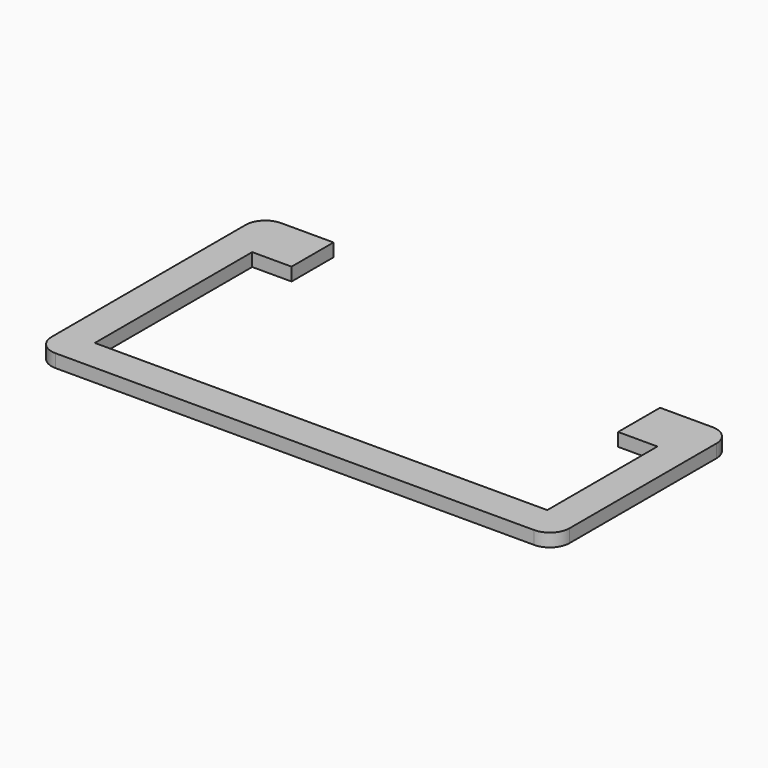
from build123d import *

# Parameters (mm, degrees)
F1_DEPTH = 2
F2_R     = 3


with BuildPart() as f1:
    # F0 (on Top) → F1 (new body)
    with BuildSketch(Plane.XY):
        Polygon((0, 43), (0, 0), (79, 0), (79, 34), (68, 34), (68, 26), (74, 26), (74, 5), (5, 5), (5, 35), (11, 35), (11, 43), align=None)
    extrude(amount=F1_DEPTH)

    # F2
    f2_edges = [f1.edges().sort_by_distance(p)[0] for p in [
        (79, 34, 1),
        (79, 0, 1),
        (0, 0, 1),
        (0, 43, 1),
    ]]
    fillet(f2_edges, radius=F2_R)


solid = f1.part
